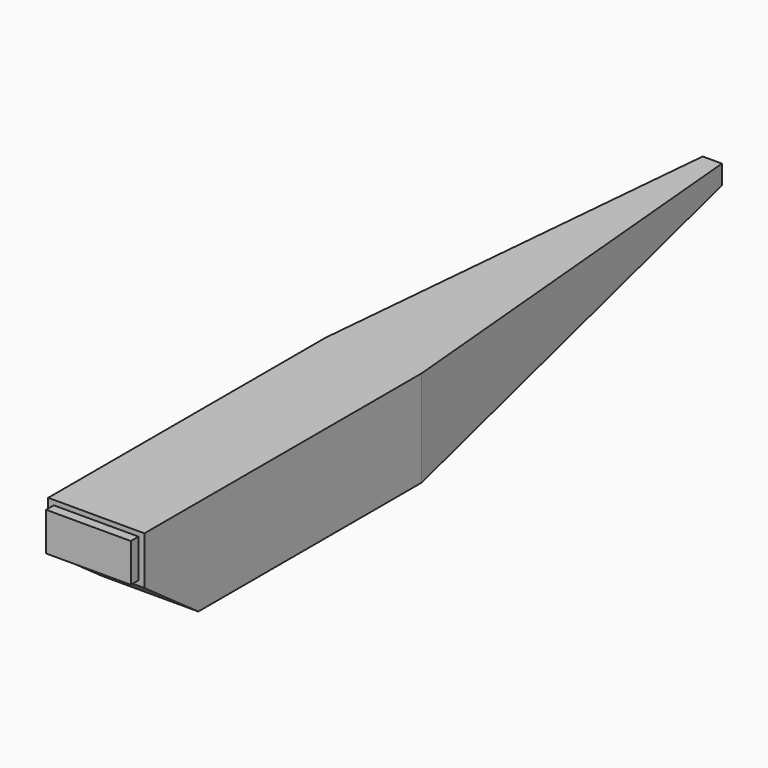
from build123d import *

# Parameters (mm, degrees)
F1_DEPTH = 127
F2_W     = 111.76
F2_H     = 50.8
F3_DEPTH = 12.7
F5_DEPTH = 138.684


with BuildPart() as f1:
    # F0 (on Right) → F1 (new body)
    with BuildSketch(Plane.YZ):
        Polygon((66.087551, 104.79458), (-949.912449, 104.79458), (-949.912449, 41.29458), (-861.012449, -22.20542), (-492.712449, -22.20542), (66.087551, 79.39458), align=None)
    extrude(amount=F1_DEPTH)

    # F2 (on face) → F3 (join)
    with BuildSketch(Plane.XZ.offset(949.912449)):
        with Locations((63.28021, 73.04458)):
            Rectangle(F2_W, F2_H)
    extrude(amount=F3_DEPTH)

    # F4 (on face) → F5 (cut)
    with BuildSketch(Plane.XY.offset(104.79458)):
        Polygon((0, -492.712449), (50.8, 66.087551), (0, 66.087551), align=None)
        Polygon((127, 66.087551), (76.2, 66.087551), (127, -492.712449), align=None)
    extrude(amount=-F5_DEPTH, mode=Mode.SUBTRACT)


solid = f1.part
